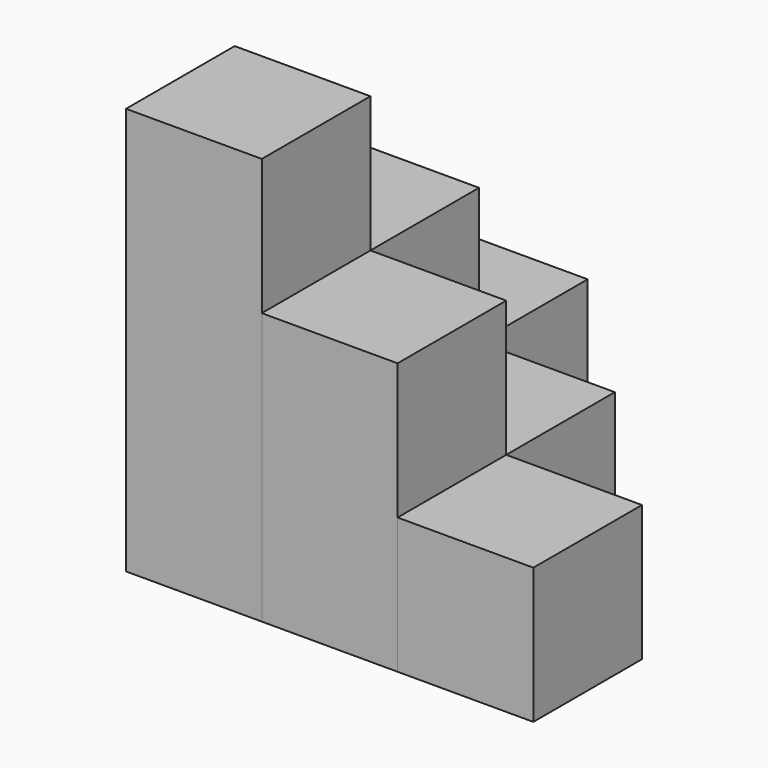
from build123d import *

# Parameters (mm, degrees)
BOX_W        = 10
BOX_H        = 10
BOX_DEPTH    = 30
BOX001_W     = 10
BOX001_H     = 10
BOX001_DEPTH = 20
BOX002_W     = 10
BOX002_H     = 10
BOX002_DEPTH = 20
BOX003_W     = 10
BOX003_H     = 10
BOX003_DEPTH = 10
BOX004_W     = 10
BOX004_H     = 10
BOX004_DEPTH = 10
BOX005_W     = 10
BOX005_H     = 10
BOX005_DEPTH = 10


with BuildPart() as obj1:
    # Box → Box (new body)
    with BuildSketch(Plane.XY):
        with Locations((5, 5)):
            Rectangle(BOX_W, BOX_H)
    extrude(amount=BOX_DEPTH)


with BuildPart() as obj2:
    # Box001 → Box001 (new body)
    with BuildSketch(Plane(origin=(10, 0, 0), x_dir=(1, 0, 0), z_dir=(0, 0, 1))):
        with Locations((5, 5)):
            Rectangle(BOX001_W, BOX001_H)
    extrude(amount=BOX001_DEPTH)


with BuildPart() as obj3:
    # Box002 → Box002 (new body)
    with BuildSketch(Plane(origin=(0, 10, 0), x_dir=(1, 0, 0), z_dir=(0, 0, 1))):
        with Locations((5, 5)):
            Rectangle(BOX002_W, BOX002_H)
    extrude(amount=BOX002_DEPTH)


with BuildPart() as obj4:
    # Box003 → Box003 (new body)
    with BuildSketch(Plane(origin=(20, 0, 0), x_dir=(1, 0, 0), z_dir=(0, 0, 1))):
        with Locations((5, 5)):
            Rectangle(BOX003_W, BOX003_H)
    extrude(amount=BOX003_DEPTH)


with BuildPart() as obj5:
    # Box004 → Box004 (new body)
    with BuildSketch(Plane(origin=(0, 20, 0), x_dir=(1, 0, 0), z_dir=(0, 0, 1))):
        with Locations((5, 5)):
            Rectangle(BOX004_W, BOX004_H)
    extrude(amount=BOX004_DEPTH)


with BuildPart() as obj6:
    # Box005 → Box005 (new body)
    with BuildSketch(Plane(origin=(10, 10, 0), x_dir=(1, 0, 0), z_dir=(0, 0, 1))):
        with Locations((5, 5)):
            Rectangle(BOX005_W, BOX005_H)
    extrude(amount=BOX005_DEPTH)


solid = Compound([obj1.part, obj2.part, obj3.part, obj4.part, obj5.part, obj6.part])
